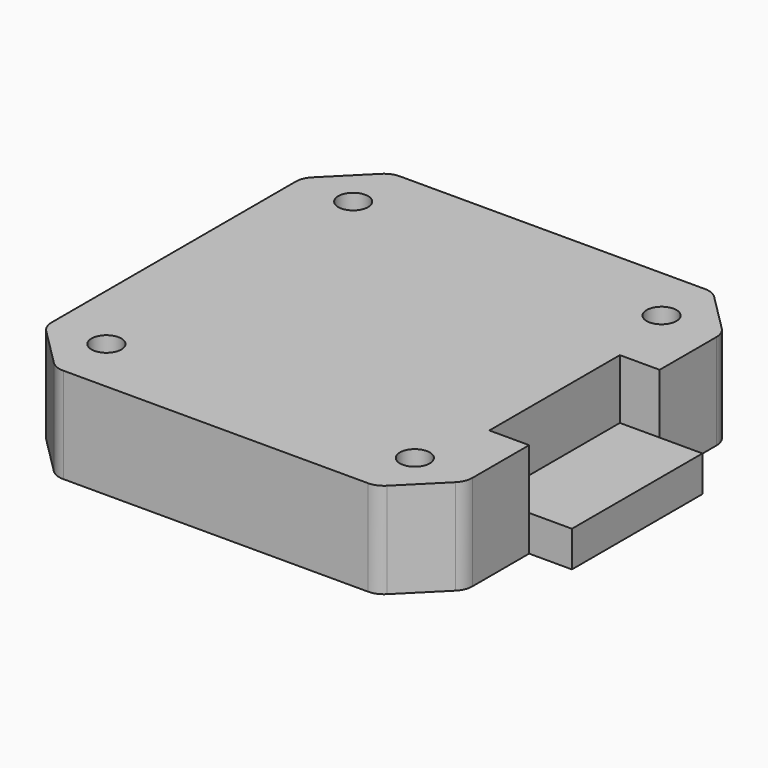
from build123d import *

# Parameters (mm, degrees)
SKETCH116_W      = 42.3
SKETCH116_H      = 42.3
PAD048_DEPTH     = 9.6
SKETCH118_W      = 4.3
SKETCH118_H      = 16.4
PAD001_DEPTH     = 3.6
CHAMFER005_SIZE  = 5
FILLET_R         = 2
HOLE_D           = 3
HOLE_DEPTH       = 25
HOLE_CBORE_D     = 5
HOLE_CBORE_DEPTH = 5
SKETCH013_W      = 16.4
SKETCH013_H      = 6
POCKET013_DEPTH  = 4


with BuildPart() as part:
    # Sketch116 → Pad048 (new body)
    with BuildSketch(Plane.XY):
        Rectangle(SKETCH116_W, SKETCH116_H)
    extrude(amount=PAD048_DEPTH)

    # Sketch118 → Pad001 (join)
    with BuildSketch(Plane.XY):
        with Locations((23.3, 0)):
            Rectangle(SKETCH118_W, SKETCH118_H)
    extrude(amount=PAD001_DEPTH)

    # Chamfer005
    chamfer005_edges = [part.edges().sort_by_distance(p)[0] for p in [
        (21.15, -21.15, 4.8),
        (-21.15, -21.15, 4.8),
        (-21.15, 21.15, 4.8),
        (21.15, 21.15, 4.8),
    ]]
    chamfer(chamfer005_edges, length=CHAMFER005_SIZE)

    # Fillet
    fillet_edges = [part.edges().sort_by_distance(p)[0] for p in [
        (16.15, -21.15, 4.8),
        (21.15, -16.15, 4.8),
        (21.15, 16.15, 4.8),
        (16.15, 21.15, 4.8),
        (-16.15, 21.15, 4.8),
        (-21.15, 16.15, 4.8),
        (-16.15, -21.15, 4.8),
        (-21.15, -16.15, 4.8),
    ]]
    fillet(fillet_edges, radius=FILLET_R)

    # Hole
    with Locations(Plane(origin=(0, 0, 0), x_dir=(1, 0, 0), z_dir=(0, 0, -1))):
        with Locations((-15.5, 15.5), (15.5, 15.5), (15.5, -15.5), (-15.5, -15.5)):
            CounterBoreHole(HOLE_D / 2, HOLE_CBORE_D / 2, HOLE_CBORE_DEPTH, depth=HOLE_DEPTH)

    # Sketch013 (on Face11 of Hole) → Pocket013 (cut)
    with BuildSketch(Plane.YZ.offset(21.15)):
        with Locations((0, 6.6)):
            Rectangle(SKETCH013_W, SKETCH013_H)
    extrude(amount=-POCKET013_DEPTH, mode=Mode.SUBTRACT)


solid = part.part
